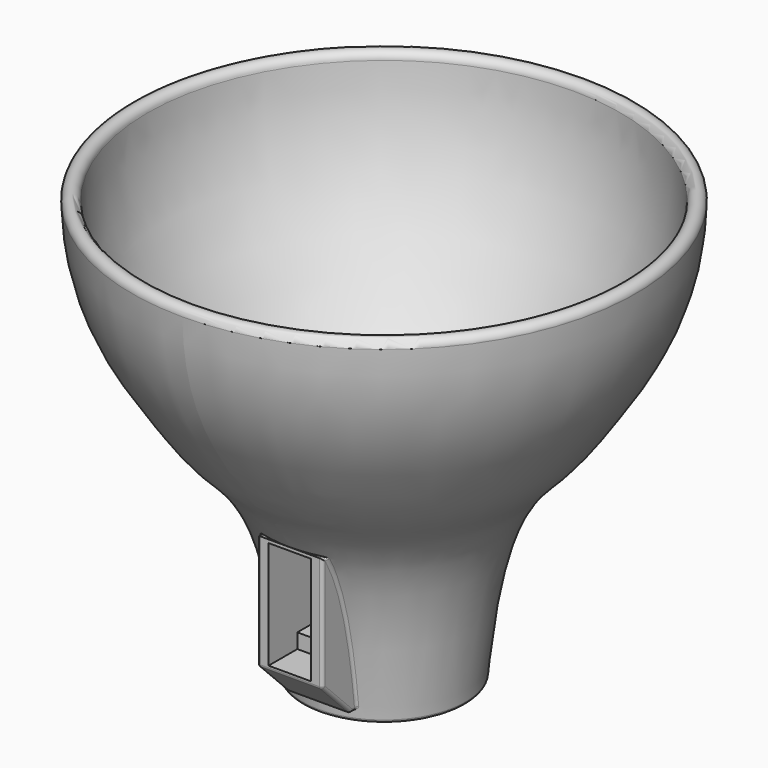
from build123d import *

# Parameters (mm, degrees)
SKETCH011_R           = 5
PAD003_DEPTH          = 5
SKETCH012_R           = 0.875
POCKET005_DEPTH       = 7
CHAMFER002_SIZE       = 1
FILLET004_R           = 1
FILLET005_R           = 1
PAD004_DEPTH          = 10
SKETCH014_W           = 33
SKETCH014_H           = 13
POCKET006_DEPTH       = 11
SKETCH015_W           = 24
SKETCH015_H           = 13
POCKET007_DEPTH       = 16.5
SKETCH016_R           = 8
POCKET008_DEPTH       = 51.105829
FILLET006_R           = 1
FILLET007_R           = 1
FILLET008_R           = 1
FILLET009_R           = 1
SKETCH017_W           = 12
SKETCH017_H           = 13
POCKET009_DEPTH       = 7.5
POCKET010_DEPTH       = 10
SKETCH019_R           = 10
POCKET011_DEPTH       = 5
POLARPATTERN001_COUNT = 2


with BuildPart() as part:
    # Sketch010 → Revolution001 (revolve)
    with BuildSketch(Plane(origin=(0, 0, 0), x_dir=(0, 0, -1), z_dir=(1, 0, 0))):
        with BuildLine():
            ThreePointArc((-127.837496, -72.433914), (-130.172381, -74.768799), (-127.837496, -77.103683))
            add(Edge.make_bspline(
                [(-127.837496, -77.103683), (-105.59528, -76.750177), (-76.38501, -57.987756), (-64.020067, -48.669036), (-55.054872, -37.701692), (-32.231522, -27.624948), (0, -24.805973)],
                knots=[0.000153, 0.000153, 0.000153, 0.000153, 0.25, 0.5, 0.75, 1, 1, 1, 1], degree=3))
            Line((0, -24.805973), (0, 0))
            Line((0, 0), (-51.105829, 0))
            Line((-51.105829, 0), (-51.105829, -33))
            Line((-51.105829, -33), (-68.105829, -33))
            Line((-68.105829, -33), (-68.105829, -35))
            Line((-68.105829, -35), (-54.17394, -35))
            add(Edge.make_bspline(
                [(-127.837496, -72.433914), (-105.59528, -72.080408), (-76.38501, -53.317987), (-64.720974, -44.527498), (-59.075838, -37.922885), (-54.17394, -35)],
                knots=[0.000153, 0.000153, 0.000153, 0.000153, 0.25, 0.5, 0.707495, 0.707495, 0.707495, 0.707495], degree=3))
        make_face()
    revolve(axis=Axis((0, 0, 0), (0, 0, -1)))

    # Sketch011 (on Face4 of Revolution001) → Pad003 (new body)
    with BuildSketch(Plane.XY.offset(51.105829)):
        with Locations((0, 21)):
            Circle(SKETCH011_R)
        with Locations((21, 0)):
            Circle(SKETCH011_R)
        with Locations((-21, 0)):
            Circle(SKETCH011_R)
    extrude(amount=PAD003_DEPTH)

    # Sketch012 (on Face12 of Pad003) → Pocket005 (cut)
    with BuildSketch(Plane(origin=(0, 0, 56.105829), x_dir=(0, -1, 0), z_dir=(0, 0, 1))):
        with Locations((0, -21)):
            Circle(SKETCH012_R)
        with Locations((0, 21)):
            Circle(SKETCH012_R)
        with Locations((-21, 0)):
            Circle(SKETCH012_R)
    extrude(amount=-POCKET005_DEPTH, mode=Mode.SUBTRACT)

    # Chamfer002
    chamfer002_edges = [part.edges().sort_by_distance(p)[0] for p in [
        (0, 33, 68.105829),
    ]]
    chamfer(chamfer002_edges, length=CHAMFER002_SIZE)

    # Fillet004
    fillet004_edges = [part.edges().sort_by_distance(p)[0] for p in [
        (-26, 0, 51.105829),
        (-26, 0, 56.105829),
        (16, 0, 51.105829),
        (16, 0, 56.105829),
        (-5, 21, 51.105829),
        (-5, 21, 56.105829),
        (0, 33, 51.105829),
    ]]
    fillet(fillet004_edges, radius=FILLET004_R)

    # Fillet005
    fillet005_edges = [part.edges().sort_by_distance(p)[0] for p in [
        (0, 35, 54.17394),
    ]]
    fillet(fillet005_edges, radius=FILLET005_R)

    # Sketch013 → Pad004 (join, symmetric)
    with BuildSketch(Plane.YZ):
        Polygon((-25.100129, 3.20607), (-5.999888, 3.20607), (-5.999888, 49.105829), (-35.999888, 49.105829), (-35.999888, 14.105829), align=None)
    extrude(amount=PAD004_DEPTH, both=True)

    # Sketch014 (on Face18 of Pad004) → Pocket006 (cut)
    with BuildSketch(Plane(origin=(0, -35.999888, 0), x_dir=(0, 0, -1), z_dir=(0, -1, 0))):
        with Locations((-31.605829, 0)):
            Rectangle(SKETCH014_W, SKETCH014_H)
    extrude(amount=-POCKET006_DEPTH, mode=Mode.SUBTRACT)

    # Sketch015 (on Face30 of Pocket006) → Pocket007 (cut)
    with BuildSketch(Plane(origin=(0, -24.999888, 0), x_dir=(0, 0, -1), z_dir=(0, -1, 0))):
        with Locations((-31.605829, 0)):
            Rectangle(SKETCH015_W, SKETCH015_H)
    extrude(amount=-POCKET007_DEPTH, mode=Mode.SUBTRACT)

    # Sketch016 (on Face17 of Pocket007) → Pocket008 (cut)
    with BuildSketch(Plane(origin=(0, 0, 51.105829), x_dir=(0, -1, 0), z_dir=(0, 0, 1))):
        Circle(SKETCH016_R)
    extrude(amount=-POCKET008_DEPTH, mode=Mode.SUBTRACT)

    # Fillet006
    fillet006_edges = [part.edges().sort_by_distance(p)[0] for p in [
        (0, 24.805973, 0),
        (0, 8, 0),
    ]]
    fillet(fillet006_edges, radius=FILLET006_R)

    # Fillet007
    fillet007_edges = [part.edges().sort_by_distance(p)[0] for p in [
        (10, -30.550009, 8.65595),
        (10, -35.999888, 31.605829),
        (10, -35.291502, 49.105829),
        (10, -26.609182, 26.753758),
        (10, -24.061108, 3.20607),
    ]]
    fillet(fillet007_edges, radius=FILLET007_R)

    # Fillet008
    fillet008_edges = [part.edges().sort_by_distance(p)[0] for p in [
        (-10, -30.550009, 8.65595),
        (-10, -35.999888, 31.605829),
        (-10, -35.291502, 49.105829),
        (-10, -26.609182, 26.753758),
        (-10, -24.061108, 3.20607),
    ]]
    fillet(fillet008_edges, radius=FILLET008_R)

    # Fillet009
    fillet009_edges = [part.edges().sort_by_distance(p)[0] for p in [
        (0, -35.999888, 14.105829),
    ]]
    fillet(fillet009_edges, radius=FILLET009_R)

    # Sketch017 (on Face39 of Fillet009) → Pocket009 (cut)
    with BuildSketch(Plane.YX.offset(-43.605829)):
        with Locations((-14.499888, 0)):
            Rectangle(SKETCH017_W, SKETCH017_H)
    extrude(amount=-POCKET009_DEPTH, mode=Mode.SUBTRACT)

    # Sketch018 (on Face35 of Pocket009) → Pocket010 (cut)
    with BuildSketch(Plane(origin=(0, -24.999888, 0), x_dir=(0, 0, -1), z_dir=(0, -1, 0))):
        with BuildLine():
            ThreePointArc((-46.224547, -0.618718), (-44.730829, 0), (-46.224547, 0.618718))
            Line((-46.224547, 0.618718), (-46.843266, 0))
            Line((-46.224547, -0.618718), (-46.843266, 0))
        make_face()
        with BuildLine():
            ThreePointArc((-18.224547, -0.618718), (-16.730829, 0), (-18.224547, 0.618718))
            Line((-18.843266, 0), (-18.224547, 0.618718))
            Line((-18.224547, -0.618718), (-18.843266, 0))
        make_face()
    extrude(amount=-POCKET010_DEPTH, mode=Mode.SUBTRACT)

    # Sketch019 → Pocket011 (cut)
    with BuildSketch(Plane.YZ.offset(-30)):
        with Locations((0, 68.105829)):
            Circle(SKETCH019_R)
    pocket011 = extrude(amount=-POCKET011_DEPTH, mode=Mode.SUBTRACT)

    # PolarPattern001: Pocket011 ×2 about axis
    polarpattern001_axis = Axis((0, 0, 0), (0, 0, 1))
    for i in range(1, POLARPATTERN001_COUNT):
        add(pocket011.rotate(polarpattern001_axis, i * 360 / POLARPATTERN001_COUNT), mode=Mode.SUBTRACT)


solid = part.part
